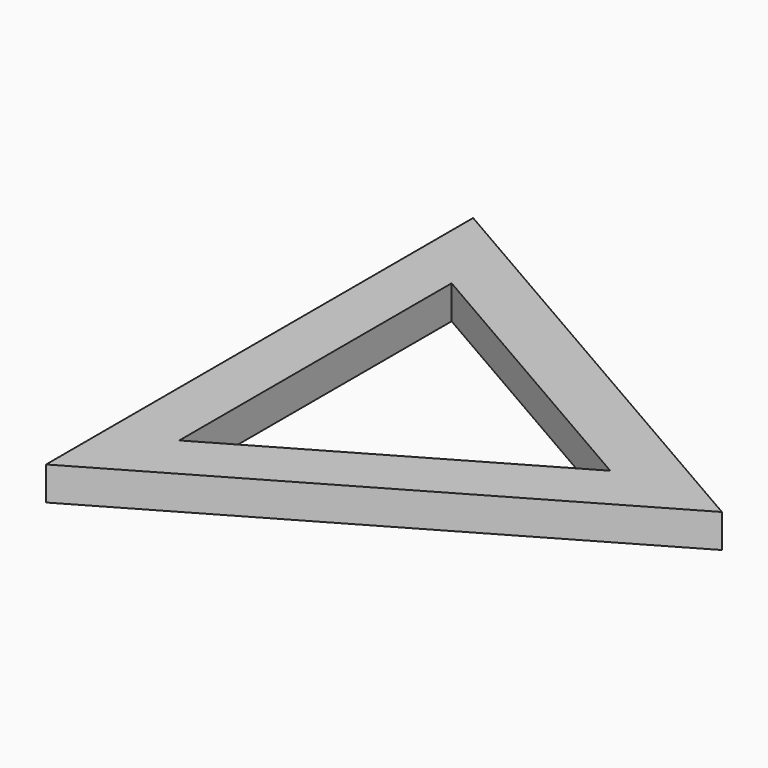
from build123d import *

# Parameters (mm, degrees)
PRISM001_DEPTH = 15
PRISM_DEPTH    = 15


with BuildPart() as prism001:
    # Prism001 → Prism001 (new body)
    with BuildSketch(Plane.XY):
        Polygon((88, 0), (-44, 76.210236), (-44, -76.210236), align=None)
    extrude(amount=PRISM001_DEPTH)


with BuildPart() as cut:
    # Prism → Prism (new body)
    with BuildSketch(Plane.XY):
        Polygon((138, 0), (-69, 119.511506), (-69, -119.511506), align=None)
    extrude(amount=PRISM_DEPTH)

    # Cut: cut Prism001
    add(prism001.part, mode=Mode.SUBTRACT)


solid = cut.part
